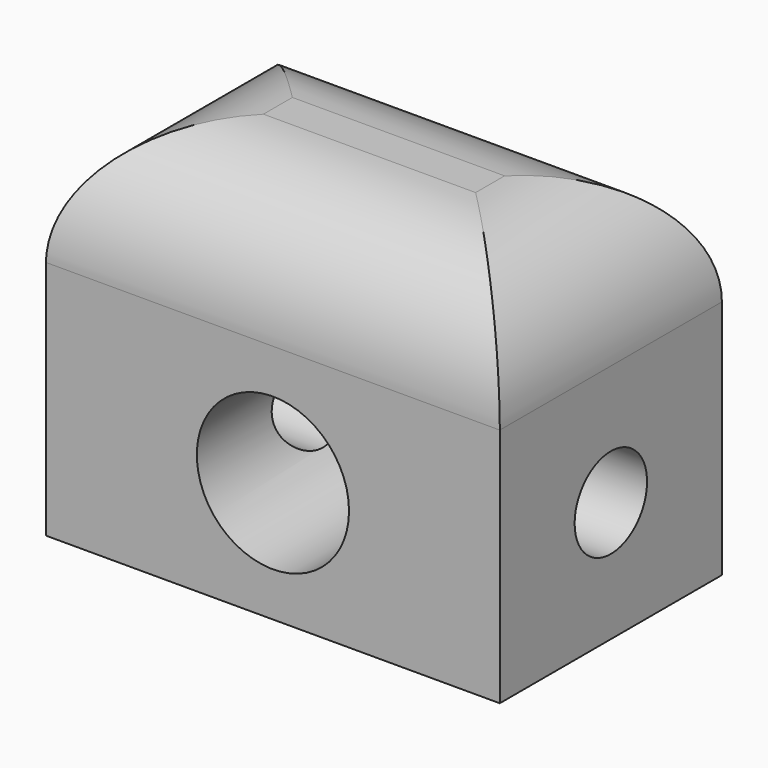
from build123d import *

# Parameters (mm, degrees)
F0_W     = 95.450528
F0_H     = 75.999472
F1_DEPTH = 58.42
F2_R     = 25.4
F3_R     = 16.009617
F4_DEPTH = 58.421
F6_D     = 19.05


with BuildPart() as f1:
    # F0 (on Front) → F1 (new body)
    with BuildSketch(Plane.XZ):
        with Locations((-1.203157, 0.902368)):
            Rectangle(F0_W, F0_H)
    extrude(amount=F1_DEPTH)

    # F2
    f2_edges = [f1.edges().sort_by_distance(p)[0] for p in [
        (-1.203157, -58.42, 38.902104),
        (46.522107, -29.21, 38.902104),
        (-48.928421, -29.21, 38.902104),
        (-1.203157, 0, 38.902104),
    ]]
    fillet(f2_edges, radius=F2_R)

    # F3 (on face) → F4 (cut, through all)
    with BuildSketch(Plane.XZ.offset(58.42)):
        with Locations((-1.203157, -11.797632)):
            Circle(F3_R)
    extrude(amount=-F4_DEPTH, mode=Mode.SUBTRACT)

    # F6 (through all)
    with Locations(Plane.YZ.offset(46.522107)):
        with Locations((-29.21, -11.797632)):
            Hole(F6_D / 2)


solid = f1.part
